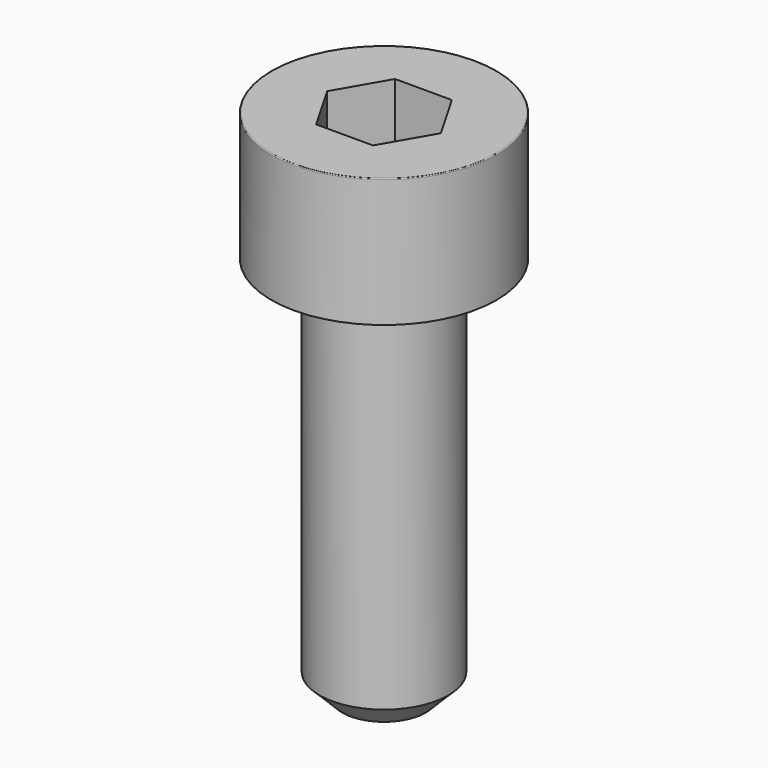
from build123d import *

# Parameters (mm, degrees)
POCKET_DEPTH = 3.06


with BuildPart() as part:
    # Sketch → Revolve (revolve)
    with BuildSketch(Plane.YZ):
        with BuildLine():
            Line((1.999, 0), (3.5, 0))
            Line((3.5, 0), (3.5, 3.97229))
            ThreePointArc((3.5, 3.97229), (3.491884, 3.991884), (3.47229, 4))
            Line((3.47229, 4), (0, 4))
            Line((0, -12), (0, 4))
            Line((1.3, -12), (0, -12))
            Line((2, -11.3), (1.3, -12))
            Line((2, -0.2), (2, -11.3))
            Line((1.999, 0), (2, -0.2))
        make_face()
    revolve(axis=Axis((0, 0, 0), (0, 0, 1)))

    # Sketch001 → Pocket (cut)
    with BuildSketch(Plane.XY.offset(4)):
        Polygon((1.766692, 0), (0.883346, 1.53), (-0.883346, 1.53), (-1.766692, 0), (-0.883346, -1.53), (0.883346, -1.53), align=None)
    extrude(amount=-POCKET_DEPTH, mode=Mode.SUBTRACT)


solid = part.part
